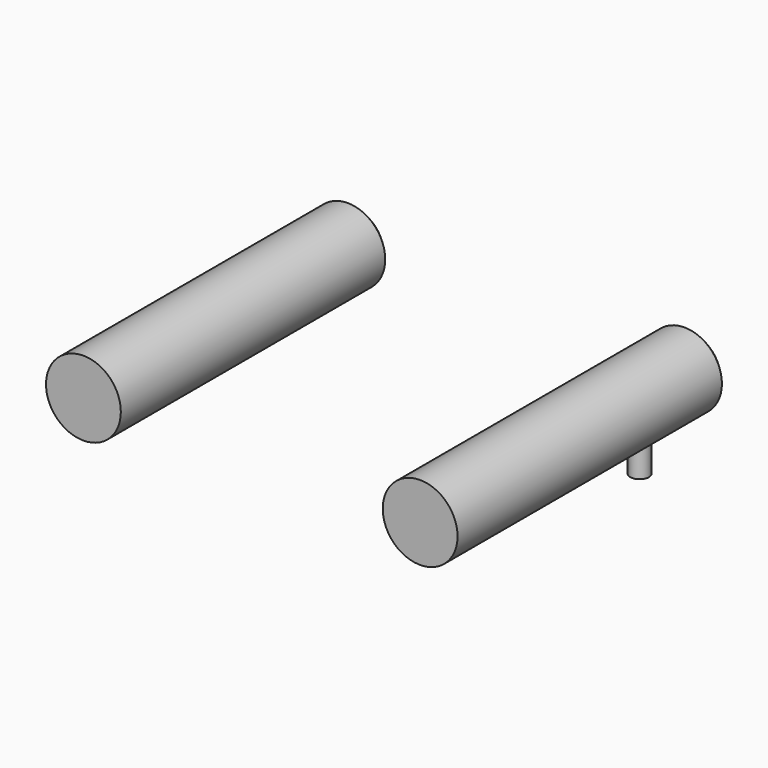
from build123d import *

# Parameters (mm, degrees)
F0_R      = 3
F1_DEPTH  = 27
F2_SIZE   = 0.5
F2_2_SIZE = 0.5
F4_START  = 2
F4_DEPTH  = 3


with BuildPart() as f1:
    # F0 (on Front) → F1 (new body)
    with BuildSketch(Plane.XZ):
        with Locations((-13.5, 7.5)):
            Circle(F0_R)
    extrude(amount=F1_DEPTH)

    # F2
    f2_edges = [f1.edges().sort_by_distance(p)[0] for p in [
        (-16.5, 0, 7.5),
    ]]
    chamfer(f2_edges, length=F2_SIZE)


with BuildPart() as f1b:
    # F0 (on Front) → F1, piece 2 (new body)
    with BuildSketch(Plane.XZ):
        with Locations((13.5, 7.5)):
            Circle(F0_R)
    extrude(amount=F1_DEPTH)

    # F2#2
    f2_2_edges = [f1b.edges().sort_by_distance(p)[0] for p in [
        (10.5, 0, 7.5),
    ]]
    chamfer(f2_2_edges, length=F2_2_SIZE)

    # F3 (on Top) → F4 (join)
    with BuildSketch(Plane.XY.offset(F4_START)):
        with BuildLine():
            ThreePointArc((12.75, -5), (13.5, -5.75), (14.25, -5))
            ThreePointArc((14.25, -5), (13.5, -4.25), (12.75, -5))
        make_face()
    extrude(amount=F4_DEPTH)


solid = Compound([f1.part, f1b.part])
